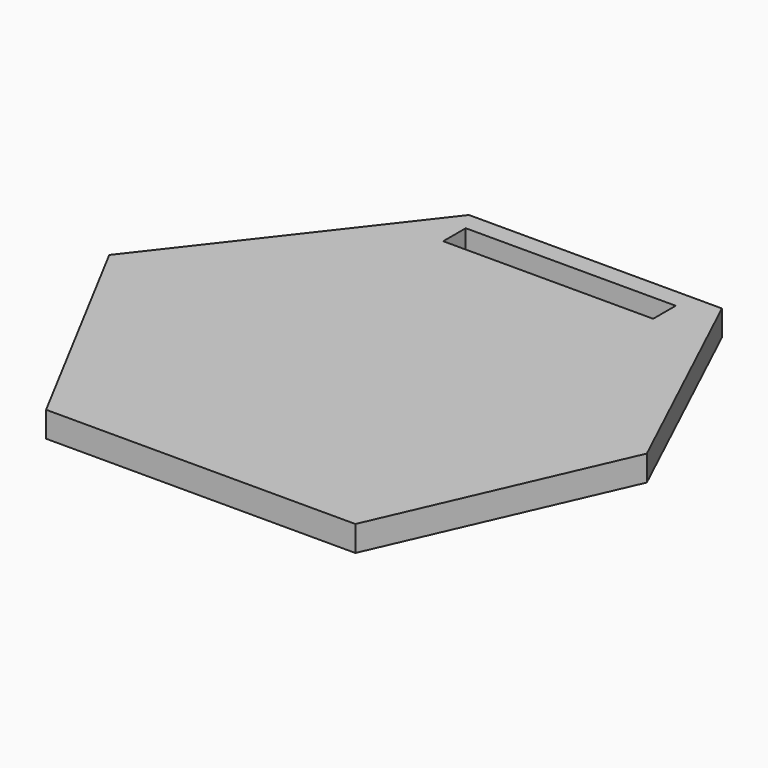
from build123d import *

# Parameters (mm, degrees)
F0_W     = 400
F0_H     = 350
F1_DEPTH = 19
F2_W     = 156.226818
F2_H     = 20.970046
F3_DEPTH = 19.001


with BuildPart() as f1:
    # F0 (on Top) → F1 (new body)
    with BuildSketch(Plane.XY):
        Rectangle(F0_W, F0_H)
    extrude(amount=F1_DEPTH)

    # F2 (on face) → F3 (cut, through all)
    with BuildSketch(Plane.XY.offset(19)):
        with Locations((18.824151, 145.217553)):
            Rectangle(F2_W, F2_H)
        Polygon((-200, 175), (-200, 0), (-68.201527, 169.857338), (120.004609, 169.857338), (200, 0), (200, 175), align=None)
        Polygon((-106.996104, -175), (-200, 0), (-200, -175), align=None)
        Polygon((200, 0), (123.150125, -175), (200, -175), align=None)
    extrude(amount=-F3_DEPTH, mode=Mode.SUBTRACT)


solid = f1.part
